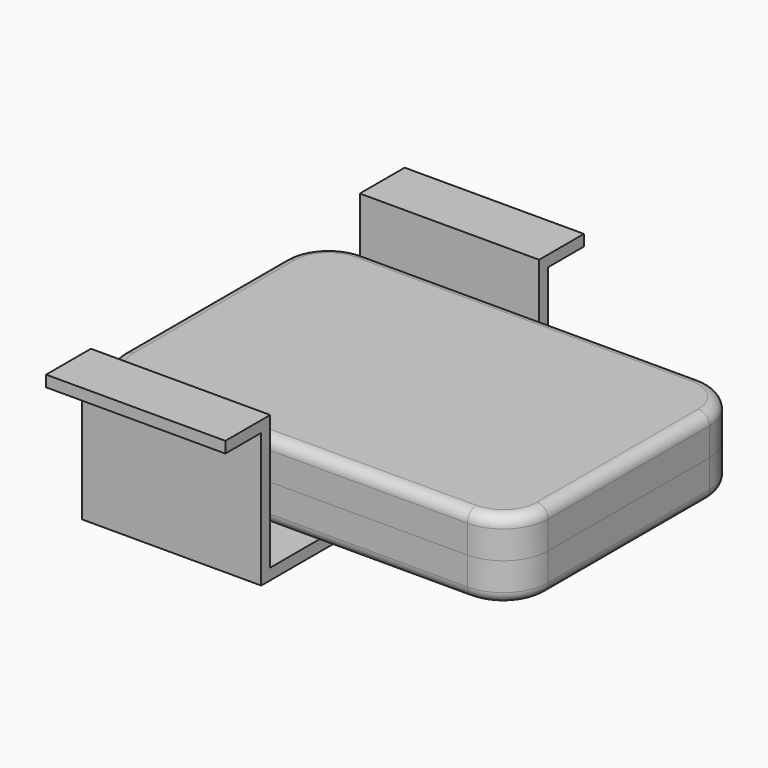
from build123d import *

# Parameters (mm, degrees)
F0_W     = 241.3
F0_H     = 22.225
F1_DEPTH = 165.1
F2_R     = 25.4
F3_R     = 6.35
F5_ANGLE = 180
F7_DEPTH = 101.6


with BuildPart() as f1:
    # F0 (on Front) → F1 (new body)
    with BuildSketch(Plane.XZ):
        with Locations((86.73964, -11.1125)):
            Rectangle(F0_W, F0_H)
    extrude(amount=F1_DEPTH)

    # F2
    f2_edges = [f1.edges().sort_by_distance(p)[0] for p in [
        (207.38964, -165.1, -11.1125),
        (207.38964, 0, -11.1125),
        (-33.91036, -165.1, -11.1125),
        (-33.91036, 0, -11.1125),
    ]]
    fillet(f2_edges, radius=F2_R)

    # F3
    f3_edges = [f1.edges().sort_by_distance(p)[0] for p in [
        (207.38964, -82.55, -22.225),
    ]]
    fillet(f3_edges, radius=F3_R)


with BuildPart() as f4_1:
    # F4: copy of F1
    add(f1.part.moved(Location((-241.3, 0, 0))))


with BuildPart() as f4_1_1:
    # F5: moved
    add(f4_1.part.rotate(Axis((-33.91036, -82.55, 0), (0, -1, 0)), F5_ANGLE))


with BuildPart() as f7:
    # F6 (on Right) → F7 (new body)
    with BuildSketch(Plane.YZ):
        Polygon((-184.15, -40.548645), (19.05, -40.548645), (19.05, 35.651355), (44.45, 35.651355), (44.45, 42.001355), (12.7, 42.001355), (12.7, -34.198645), (-177.8, -34.198645), (-177.8, 42.001355), (-209.55, 42.001355), (-209.55, 35.651355), (-184.15, 35.651355), align=None)
    extrude(amount=F7_DEPTH)


with BuildPart() as f1_1:
    # F8: moved
    add(f1.part.moved(Location((33.91154, 0, 0))))


with BuildPart() as f4_1_2:
    # F8: moved
    add(f4_1_1.part.moved(Location((33.91154, 0, 0))))


with BuildPart() as f1_2:
    # F9: moved
    add(f1_1.part.moved(Location((-12.7, 0, 0))))


with BuildPart() as f4_1_3:
    # F9: moved
    add(f4_1_2.part.moved(Location((-12.7, 0, 0))))


solid = Compound([f7.part, f1_2.part, f4_1_3.part])
